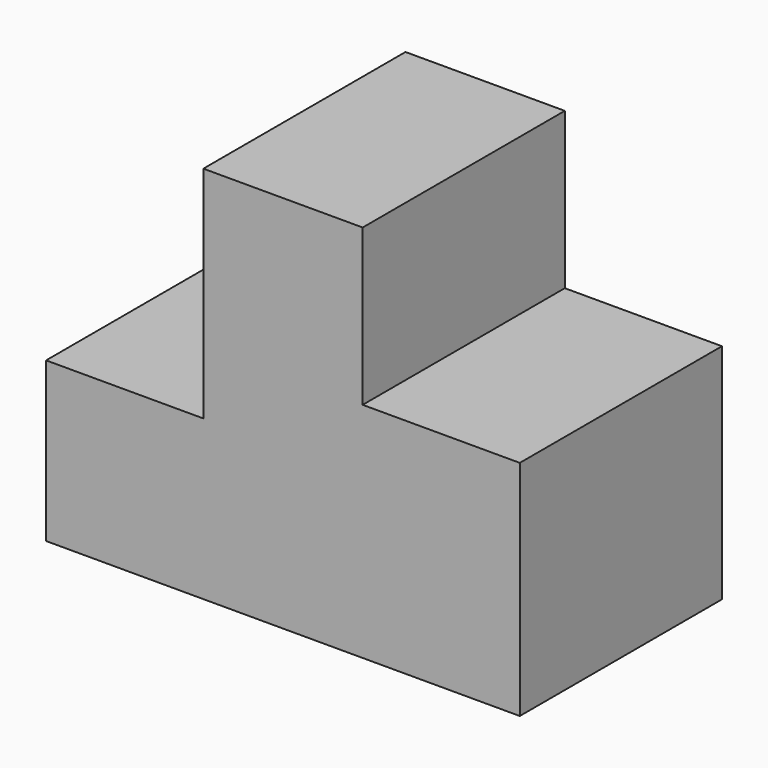
from build123d import *

# Parameters (mm, degrees)
F0_W     = 75
F0_H     = 60
F1_DEPTH = 40
F2_W     = 25
F2_H     = 35
F2_W_2   = 24.9936
F2_H_2   = 25
F3_DEPTH = 40.001


with BuildPart() as f1:
    # F0 (on Front) → F1 (new body)
    with BuildSketch(Plane.XZ):
        with Locations((5.865399, -0.198499)):
            Rectangle(F0_W, F0_H)
    extrude(amount=F1_DEPTH)

    # F2 (on Front) → F3 (cut, through all)
    with BuildSketch(Plane.XZ):
        with Locations((-19.235718, 12.4838)):
            Rectangle(F2_W, F2_H)
        with Locations((30.985761, 17.584927)):
            Rectangle(F2_W_2, F2_H_2)
    extrude(amount=F3_DEPTH, mode=Mode.SUBTRACT)


solid = f1.part
